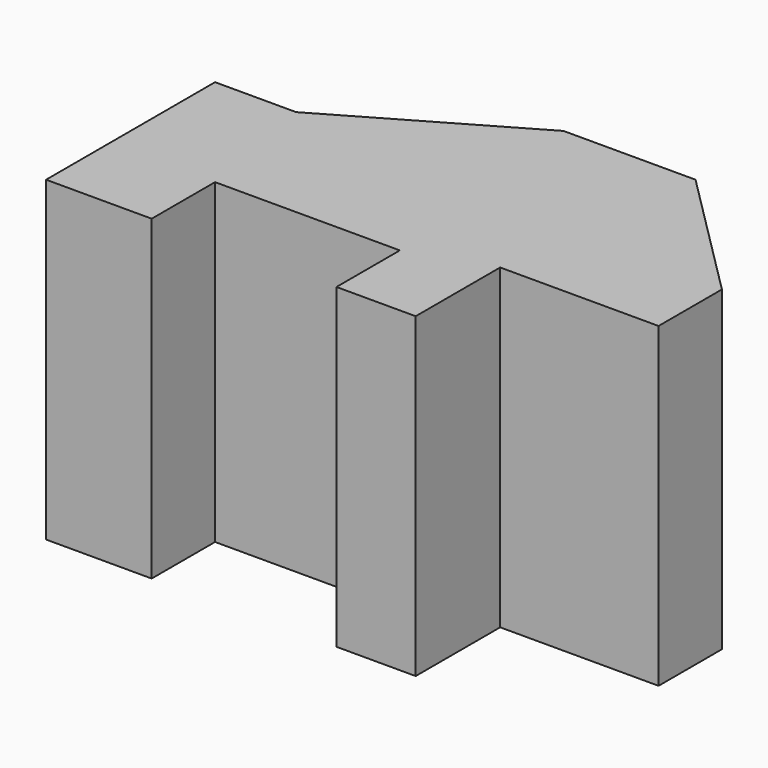
from build123d import *

# Parameters (mm, degrees)
F1_DEPTH = 60
F3_DEPTH = 25
F4_DEPTH = 78


with BuildPart() as f1:
    # F0 (on Top) → F1 (new body)
    with BuildSketch(Plane.XY):
        Polygon((66.599292, 42.537525), (-33.400708, 42.537525), (-33.400708, -17.462475), (-13.400708, -17.462475), (-13.400708, -2.462475), (21.599292, -2.462475), (21.599292, -17.462475), (36.599292, -17.462475), (36.599292, 2.537525), (66.599292, 2.537525), align=None)
    extrude(amount=F1_DEPTH)

    # F2 (on Top) → F3 (join)
    with BuildSketch(Plane.XY):
        Polygon((66.599292, 17.537525), (66.599292, 42.537525), (41.599292, 42.537525), align=None)
        Polygon((16.599292, 42.537525), (-33.400708, 42.537525), (-33.400708, 23.578404), (-33.400708, 22.537525), (-18.041724, 22.537525), align=None)
    extrude(amount=F3_DEPTH)

    # F2 (on Top) → F4 (cut)
    with BuildSketch(Plane.XY):
        Polygon((66.599292, 17.537525), (66.599292, 42.537525), (41.599292, 42.537525), align=None)
        Polygon((16.599292, 42.537525), (-33.400708, 42.537525), (-33.400708, 23.578404), (-33.400708, 22.537525), (-18.041724, 22.537525), align=None)
    extrude(amount=F4_DEPTH, mode=Mode.SUBTRACT)


solid = f1.part
